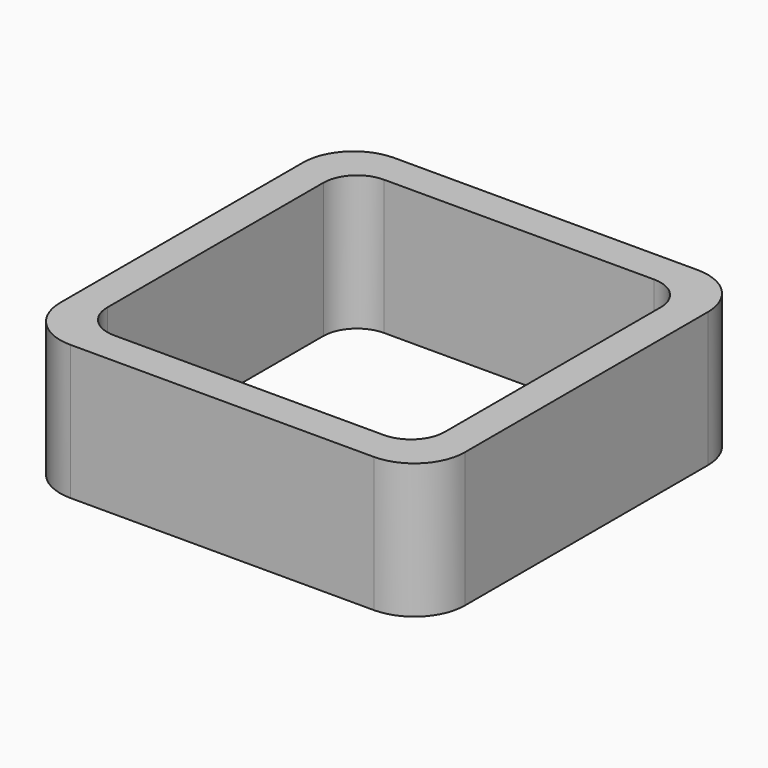
from build123d import *

# Parameters (mm, degrees)
EXTRUDE_DEPTH = 50


with BuildPart() as part:
    # Sketch → Extrude (new body)
    with BuildSketch(Plane.XY):
        with BuildLine():
            Line((-56.25, 75), (56.25, 75))
            ThreePointArc((75, 56.25), (69.508252, 69.508252), (56.25, 75))
            Line((75, 56.25), (75, -56.25))
            ThreePointArc((56.25, -75), (69.508252, -69.508252), (75, -56.25))
            Line((56.25, -75), (-56.25, -75))
            ThreePointArc((-75, -56.25), (-69.508252, -69.508252), (-56.25, -75))
            Line((-75, -56.25), (-75, 56.25))
            ThreePointArc((-56.25, 75), (-69.508252, 69.508252), (-75, 56.25))
        make_face()
        with BuildLine():
            Line((-50, 62.5), (50, 62.5))
            ThreePointArc((62.5, 50), (58.838835, 58.838835), (50, 62.5))
            Line((62.5, 50), (62.5, -50))
            ThreePointArc((50, -62.5), (58.838835, -58.838835), (62.5, -50))
            Line((50, -62.5), (-50, -62.5))
            ThreePointArc((-62.5, -50), (-58.838835, -58.838835), (-50, -62.5))
            Line((-62.5, -50), (-62.5, 50))
            ThreePointArc((-50, 62.5), (-58.838835, 58.838835), (-62.5, 50))
        make_face(mode=Mode.SUBTRACT)
    extrude(amount=EXTRUDE_DEPTH)


solid = part.part
